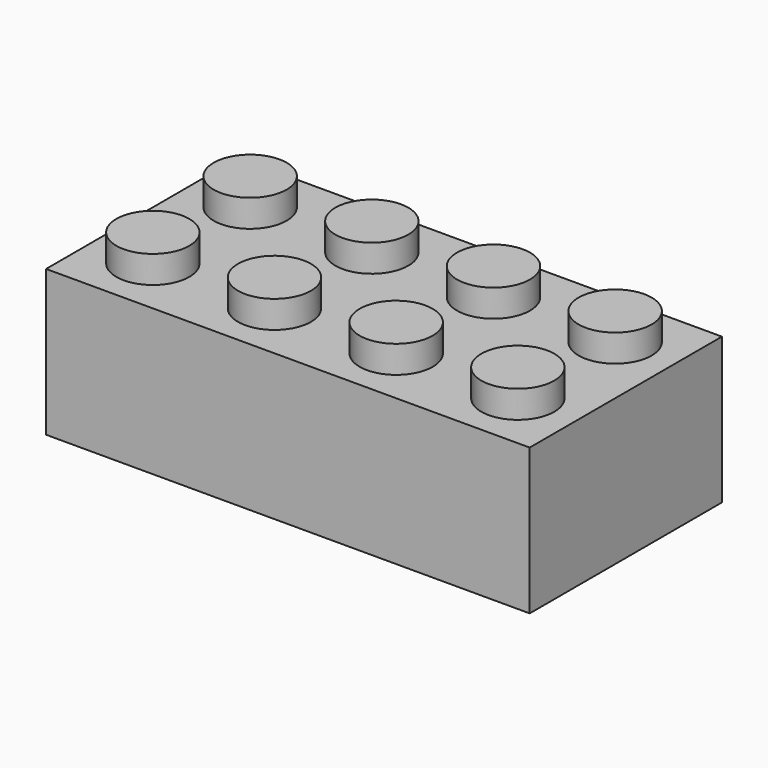
from build123d import *

# Parameters (mm, degrees)
F0_W     = 31.8
F0_H     = 15.8
F1_DEPTH = 9.6
F2_R     = 2.4
F3_DEPTH = 1.8


with BuildPart() as f1:
    # F0 (on Top) → F1 (new body)
    with BuildSketch(Plane.XY):
        with Locations((-31.948517, 34.880117)):
            Rectangle(F0_W, F0_H)
    extrude(amount=F1_DEPTH)

    # F2 (on face) → F3 (join)
    with BuildSketch(Plane.XY.offset(9.6)):
        with Locations((-43.948517, 38.880117)):
            Circle(F2_R)
        with Locations((-43.948517, 30.880117)):
            Circle(F2_R)
        with Locations((-35.948517, 38.880117)):
            Circle(F2_R)
        with Locations((-35.948517, 30.880117)):
            Circle(F2_R)
        with Locations((-27.948517, 38.880117)):
            Circle(F2_R)
        with Locations((-27.948517, 30.880117)):
            Circle(F2_R)
        with Locations((-19.948517, 38.880117)):
            Circle(F2_R)
        with Locations((-19.948517, 30.880117)):
            Circle(F2_R)
    extrude(amount=F3_DEPTH)


solid = f1.part
